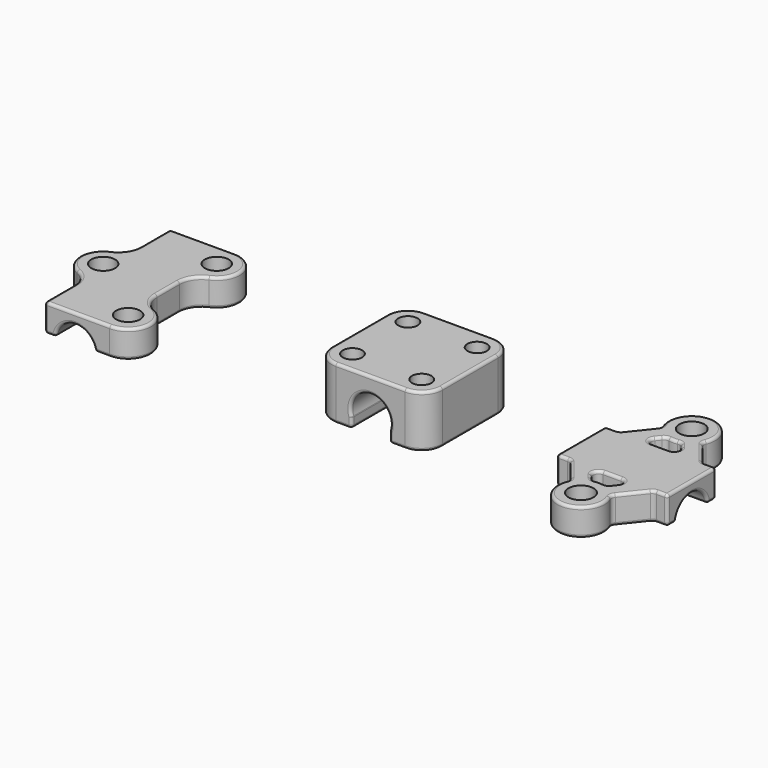
from build123d import *

# Parameters (mm, degrees)
F1_START  = 0.5
F0_R      = 1.75
F1_DEPTH  = 9.5
F3_DEPTH  = 12.5
F4_R      = 0.5
F6_START  = 0.5
F5_R      = 2.25
F6_DEPTH  = 5
F7_R      = 3.6
F8_DEPTH  = 60.001
F9_R      = 1
F10_R     = 0.5
F12_START = 0.5
F11_R     = 2.15
F12_DEPTH = 5
F13_R     = 4
F14_R     = 3.6
F15_DEPTH = 30.901
F16_R     = 0.5


with BuildPart() as f1:
    # F0 (on Top) → F1 (new body)
    with BuildSketch(Plane.XY.offset(F1_START)):
        with BuildLine():
            Line((10, 0), (10, 6.25))
            ThreePointArc((10, 6.25), (8.9016504294, 8.9016504294), (6.25, 10))
            Line((6.25, 10), (0, 10))
            Line((0, 10), (-6.25, 10))
            ThreePointArc((-6.25, 10), (-8.9016504294, 8.9016504294), (-10, 6.25))
            Line((-10, 6.25), (-10, 0))
            Line((-10, 0), (-10, -6.25))
            ThreePointArc((-10, -6.25), (-8.9016504294, -8.9016504294), (-6.25, -10))
            Line((-6.25, -10), (0, -10))
            Line((0, -10), (6.25, -10))
            ThreePointArc((6.25, -10), (8.9016504294, -8.9016504294), (10, -6.25))
            Line((10, -6.25), (10, 0))
        make_face()
        with Locations((-6.25, -6.25)):
            Circle(F0_R, mode=Mode.SUBTRACT)
        with Locations((6.25, -6.25)):
            Circle(F0_R, mode=Mode.SUBTRACT)
        with Locations((-6.25, 6.25)):
            Circle(F0_R, mode=Mode.SUBTRACT)
        with Locations((6.25, 6.25)):
            Circle(F0_R, mode=Mode.SUBTRACT)
    extrude(amount=F1_DEPTH)

    # F2 (on Front) → F3 (cut, symmetric)
    with BuildSketch(Plane.XZ):
        with BuildLine():
            Line((3.4, 0), (3.4, 2.3167840434))
            ThreePointArc((3.4, 2.3167840434), (0, 7.1), (-3.4, 2.3167840434))
            Line((-3.4, 2.3167840434), (-3.4, 0))
            Line((-3.4, 0), (3.4, 0))
        make_face()
    extrude(amount=F3_DEPTH, both=True, mode=Mode.SUBTRACT)

    # F4
    f4_edges = [f1.edges().sort_by_distance(p)[0] for p in [
        (0, 10, 7.1),
        (3.4, 10, 1.408392),
        (-3.4, 10, 1.408392),
        (0, -10, 7.1),
        (3.4, -10, 1.408392),
        (-3.4, -10, 1.408392),
        (3.4, 0, 2.316784),
        (-3.4, 0, 2.316784),
        (-10, 0, 0.5),
        (-3.4, 0, 0.5),
        (10, 0, 0.5),
        (3.4, 0, 0.5),
        (10, 0, 10),
    ]]
    fillet(f4_edges, radius=F4_R)


with BuildPart() as f6:
    # F5 (on Top) → F6 (new body)
    with BuildSketch(Plane.XY.offset(F6_START)):
        with BuildLine():
            Line((32.4790627288, 5.5), (30, 5.5))
            Line((30, 5.5), (30, 0))
            Line((30, 0), (30, -5.5))
            Line((30, -5.5), (32.4790627288, -5.5))
            Line((32.4790627288, -5.5), (36.3446010334, -10.3319228808))
            ThreePointArc((36.3446010334, -10.3319228808), (40, -16.75), (43.6553989666, -10.3319228808))
            Line((43.6553989666, -10.3319228808), (47.5209372712, -5.5))
            Line((47.5209372712, -5.5), (50, -5.5))
            Line((50, -5.5), (50, 0))
            Line((50, 0), (50, 5.5))
            Line((50, 5.5), (47.5209372712, 5.5))
            Line((47.5209372712, 5.5), (43.6553989666, 10.3319228808))
            ThreePointArc((43.6553989666, 10.3319228808), (40, 16.75), (36.3446010334, 10.3319228808))
            Line((36.3446010334, 10.3319228808), (32.4790627288, 5.5))
        make_face()
        with Locations((40, -12.5)):
            Circle(F5_R, mode=Mode.SUBTRACT)
        with BuildLine():
            ThreePointArc((41.3127925383, -8.4578377381), (40, -8.25), (38.6872074617, -8.4578377381))
            Line((38.6872074617, -8.4578377381), (36.3209372712, -5.5))
            Line((36.3209372712, -5.5), (43.6790627288, -5.5))
            Line((43.6790627288, -5.5), (41.3127925383, -8.4578377381))
        make_face(mode=Mode.SUBTRACT)
        with BuildLine():
            Line((36.3209372712, 5.5), (38.6872074617, 8.4578377381))
            ThreePointArc((38.6872074617, 8.4578377381), (40, 8.25), (41.3127925383, 8.4578377381))
            Line((41.3127925383, 8.4578377381), (43.6790627288, 5.5))
            Line((43.6790627288, 5.5), (36.3209372712, 5.5))
        make_face(mode=Mode.SUBTRACT)
        with Locations((40, 12.5)):
            Circle(F5_R, mode=Mode.SUBTRACT)
    extrude(amount=F6_DEPTH)

    # F7 (on face) → F8 (cut, through all)
    with BuildSketch(Plane.YZ.offset(50)):
        Circle(F7_R)
    extrude(amount=-F8_DEPTH, mode=Mode.SUBTRACT)

    # F9
    f9_edges = [f6.edges().sort_by_distance(p)[0] for p in [
        (43.655399, 10.331923, 3),
        (47.520937, 5.5, 3),
        (36.344601, 10.331923, 3),
        (32.479063, 5.5, 3),
        (38.687207, 8.457838, 3),
        (41.312793, 8.457838, 3),
        (36.320937, 5.5, 3),
        (43.679063, 5.5, 3),
        (41.312793, -8.457838, 3),
        (38.687207, -8.457838, 3),
        (43.679063, -5.5, 3),
        (36.320937, -5.5, 3),
        (43.655399, -10.331923, 3),
        (32.479063, -5.5, 3),
        (36.344601, -10.331923, 3),
        (47.520937, -5.5, 3),
    ]]
    fillet(f9_edges, radius=F9_R)

    # F10
    f10_edges = [f6.edges().sort_by_distance(p)[0] for p in [
        (40, -16.75, 0.5),
        (37.954031, -7.541368, 0.5),
        (40, 3.565109, 0.5),
        (40, -3.565109, 0.5),
        (37.954031, 7.541368, 0.5),
        (34.362035, 7.853715, 0.5),
        (40, -16.75, 5.5),
        (40, -5.5, 5.5),
        (40, 5.5, 5.5),
        (45.637965, 7.853715, 5.5),
        (50, -4.532554, 0.5),
        (50, 0, 3.6),
        (50, 4.532554, 0.5),
        (50, 5.5, 3),
        (50, 0, 5.5),
        (50, -5.5, 3),
        (30, 4.532554, 0.5),
        (30, 0, 3.6),
        (30, -4.532554, 0.5),
        (30, -5.5, 3),
        (30, 0, 5.5),
        (30, 5.5, 3),
    ]]
    fillet(f10_edges, radius=F10_R)


with BuildPart() as f12:
    # F11 (on Top) → F12 (new body)
    with BuildSketch(Plane.XY.offset(F12_START)):
        with BuildLine():
            Line((-44.5, -5.9183336736), (-44.5, 5.9183336736))
            ThreePointArc((-44.5, 5.9183336736), (-39.6171187257, 9.6234467199), (-43.75, 14.15))
            Line((-43.75, 14.15), (-55.5, 14.15))
            Line((-55.5, 14.15), (-55.5, 4.0816663264))
            ThreePointArc((-55.5, 4.0816663264), (-60.4, 0), (-55.5, -4.0816663264))
            Line((-55.5, -4.0816663264), (-55.5, -14.15))
            Line((-55.5, -14.15), (-43.75, -14.15))
            ThreePointArc((-43.75, -14.15), (-39.6171187257, -9.6234467199), (-44.5, -5.9183336736))
        make_face()
        with Locations((-43.75, -10)):
            Circle(F11_R, mode=Mode.SUBTRACT)
        with Locations((-56.25, 0)):
            Circle(F11_R, mode=Mode.SUBTRACT)
        with Locations((-43.75, 10)):
            Circle(F11_R, mode=Mode.SUBTRACT)
    extrude(amount=F12_DEPTH)

    # F13
    f13_edges = [f12.edges().sort_by_distance(p)[0] for p in [
        (-55.5, -4.081666, 3),
        (-55.5, 4.081666, 3),
        (-44.5, 5.918334, 3),
        (-44.5, -5.918334, 3),
    ]]
    fillet(f13_edges, radius=F13_R)

    # F14 (on face) → F15 (cut, through all)
    with BuildSketch(Plane.XZ.offset(14.15)):
        with Locations((-50, 0)):
            Circle(F14_R)
    extrude(amount=-F15_DEPTH, mode=Mode.SUBTRACT)

    # F16
    f16_edges = [f12.edges().sort_by_distance(p)[0] for p in [
        (-46.434891, 0, 0.5),
        (-53.565109, 0, 0.5),
        (-55.5, -14.15, 3),
        (-55.5, 14.15, 3),
        (-60.4, 0, 0.5),
        (-43.845173, -4.719174, 0.5),
        (-54.532554, 14.15, 0.5),
        (-54.532554, -14.15, 0.5),
        (-50, 14.15, 3.6),
        (-50, -14.15, 3.6),
        (-39.686972, 10.845166, 5.5),
        (-56.154827, -5.280826, 5.5),
    ]]
    fillet(f16_edges, radius=F16_R)


solid = Compound([f1.part, f6.part, f12.part])
